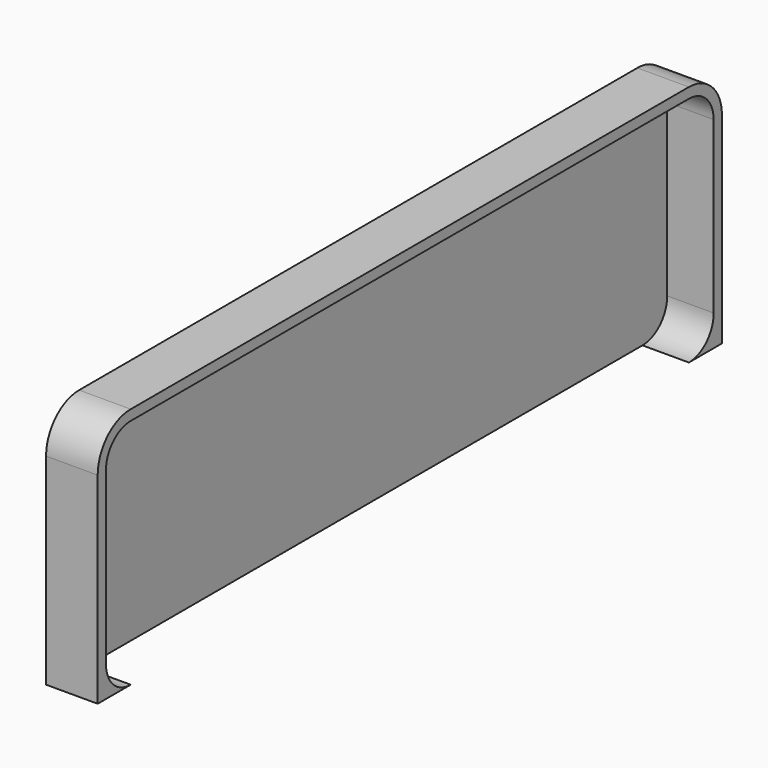
from build123d import *

# Parameters (mm, degrees)
BOX_W        = 141
BOX_H        = 73.6
BOX_DEPTH    = 22.5
FILLET_R     = 3
BOX004_W     = 5
BOX004_H     = 75.6
BOX004_DEPTH = 23.5
FILLET004_R  = 4


with BuildPart() as battery_fillet:
    # Box → Box (new body)
    with BuildSketch(Plane(origin=(2, 0, 0), x_dir=(1, 0, 0), z_dir=(0, 0, 1))):
        with Locations((70.5, 36.8)):
            Rectangle(BOX_W, BOX_H)
    extrude(amount=BOX_DEPTH)

    # Fillet
    fillet_edges = [battery_fillet.edges().sort_by_distance(p)[0] for p in [
        (72.5, 0, 0),
        (72.5, 0, 22.5),
        (72.5, 73.6, 0),
        (72.5, 73.6, 22.5),
    ]]
    fillet(fillet_edges, radius=FILLET_R)


with BuildPart() as battery_fillet_1:
    # Fillet placement: moved
    add(battery_fillet.part.moved(Location((0, -36.8, 0))))


with BuildPart() as test_back_wall_cut:
    # Box004 → Box004 (new body)
    with BuildSketch(Plane(origin=(1.5, -37.8, 0), x_dir=(1, 0, 0), z_dir=(0, 0, 1))):
        with Locations((2.5, 37.8)):
            Rectangle(BOX004_W, BOX004_H)
    extrude(amount=BOX004_DEPTH)

    # Fillet004
    fillet004_edges = [test_back_wall_cut.edges().sort_by_distance(p)[0] for p in [
        (4, -37.8, 23.5),
        (4, 37.8, 23.5),
    ]]
    fillet(fillet004_edges, radius=FILLET004_R)

    # Cut003: cut battery fillet
    add(battery_fillet_1.part, mode=Mode.SUBTRACT)


solid = test_back_wall_cut.part
